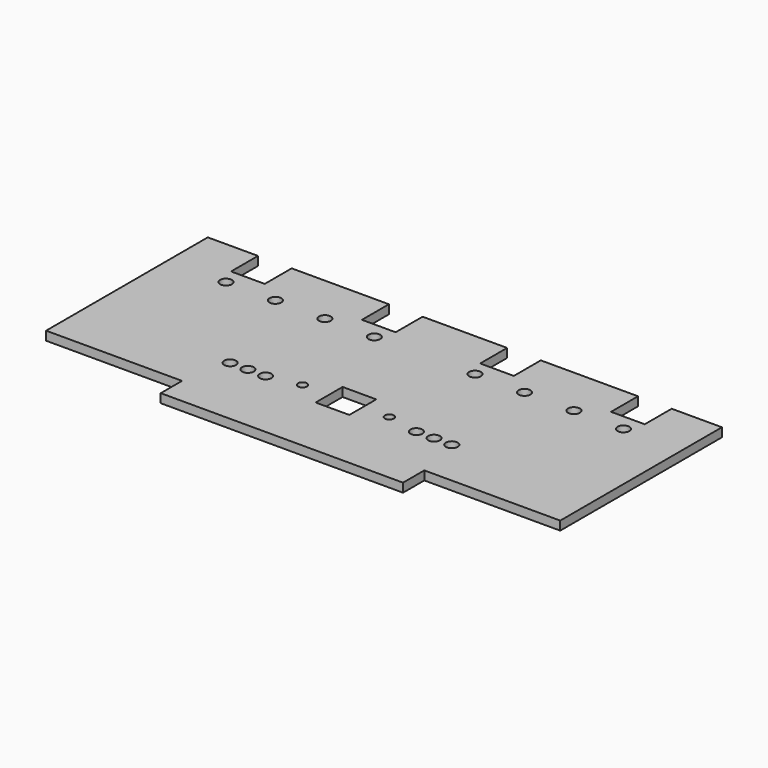
from build123d import *

# Parameters (mm, degrees)
SKETCH_R      = 2
PAD_DEPTH     = 3
SKETCH001_R   = 1.5
SKETCH001_W   = 3
SKETCH001_H   = 90.076996
SKETCH001_H_2 = 90.92247
SKETCH001_W_2 = 11.4
SKETCH001_H_3 = 11.4
POCKET_DEPTH  = 3.001


with BuildPart() as part:
    # Sketch → Pad (new body)
    with BuildSketch(Plane.XY):
        Polygon((0, 77.4), (20, 77.4), (20, 66), (31.4, 66), (31.4, 77.4), (64.3, 77.4), (64.3, 66), (75.7, 66), (75.7, 77.4), (90, 77.4), (90, 0), (49, 0), (49, 9), (0, 9), align=None)
        with Locations((52.5, 25)):
            Circle(SKETCH_R, mode=Mode.SUBTRACT)
        with Locations((58.5, 25)):
            Circle(SKETCH_R, mode=Mode.SUBTRACT)
        with Locations((64.5, 25)):
            Circle(SKETCH_R, mode=Mode.SUBTRACT)
        with Locations((22.74, 60.4)):
            Circle(SKETCH_R, mode=Mode.SUBTRACT)
        with Locations((39.48, 60.4)):
            Circle(SKETCH_R, mode=Mode.SUBTRACT)
        with Locations((56.22, 60.4)):
            Circle(SKETCH_R, mode=Mode.SUBTRACT)
        with Locations((72.96, 60.4)):
            Circle(SKETCH_R, mode=Mode.SUBTRACT)
    pad = extrude(amount=PAD_DEPTH)

    # Mirrored: Pad across face of Pad
    add(pad.mirror(Plane(origin=(90, 38.7, 1.5), x_dir=(0, 1, 0), z_dir=(1, 0, 0))))

    # Sketch001 → Pocket (cut, through all)
    with BuildSketch(Plane.XY.offset(3)):
        with Locations((104.7, 27.1)):
            Circle(SKETCH001_R)
        with Locations((75.3, 27.1)):
            Circle(SKETCH001_R)
        with Locations((1.5, 45.038498)):
            Rectangle(SKETCH001_W, SKETCH001_H)
        with Locations((178.5, 45.461235)):
            Rectangle(SKETCH001_W, SKETCH001_H_2)
        with Locations((90, 27.1)):
            Rectangle(SKETCH001_W_2, SKETCH001_H_3)
    extrude(amount=-POCKET_DEPTH, mode=Mode.SUBTRACT)


solid = part.part
